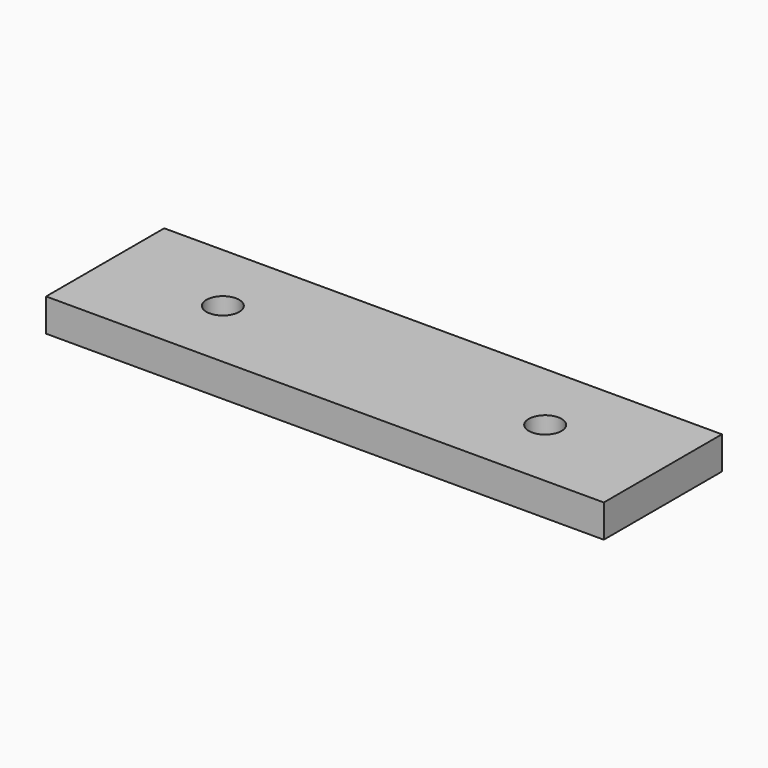
from build123d import *

# Parameters (mm, degrees)
F0_W     = 170
F0_H     = 10
F1_DEPTH = 45
F3_D     = 10


with BuildPart() as f1:
    # F0 (on Front) → F1 (new body)
    with BuildSketch(Plane.XZ):
        with Locations((15.6219, 11.661158)):
            Rectangle(F0_W, F0_H)
    extrude(amount=F1_DEPTH)

    # F3 (through all)
    with Locations(Plane.XY.offset(16.661158)):
        with Locations((-33.5031, -22.5), (64.7469, -22.5)):
            Hole(F3_D / 2)


solid = f1.part
